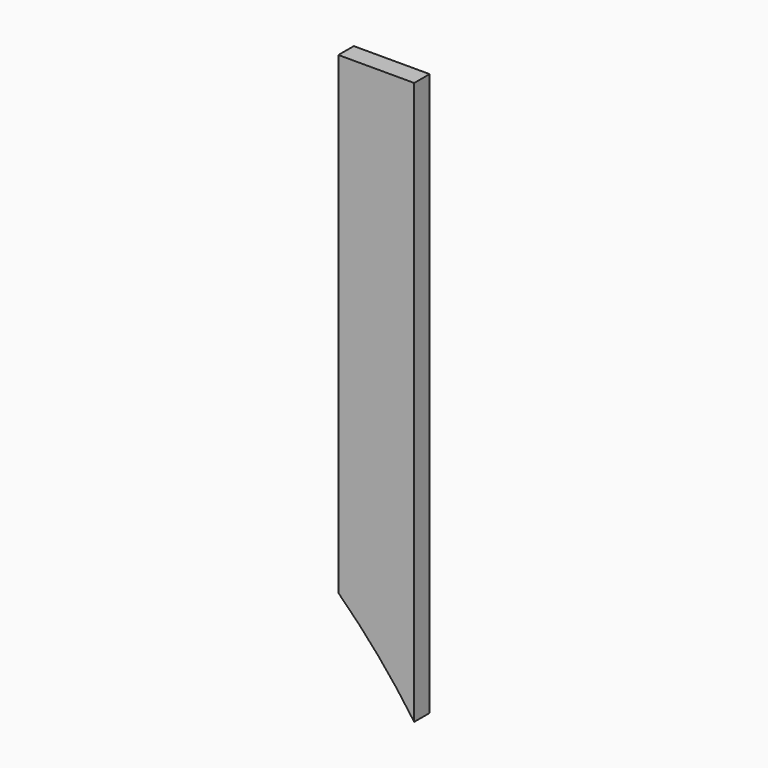
from build123d import *

# Parameters (mm, degrees)
F1_DEPTH = 10.16


with BuildPart() as f1:
    # F0 (on Front) → F1 (new body, symmetric)
    with BuildSketch(Plane.XZ):
        with BuildLine():
            ThreePointArc((764.717577, -19.784149), (806.982353, -64.764476), (844.717577, -113.607018))
            Line((844.717577, -113.607018), (844.717577, 479.9962))
            Line((844.717577, 479.9962), (804.717577, 479.9962))
            Line((804.717577, 479.9962), (764.717577, 479.9962))
            Line((764.717577, 479.9962), (764.717577, -19.784149))
        make_face()
    extrude(amount=F1_DEPTH, both=True)


solid = f1.part
